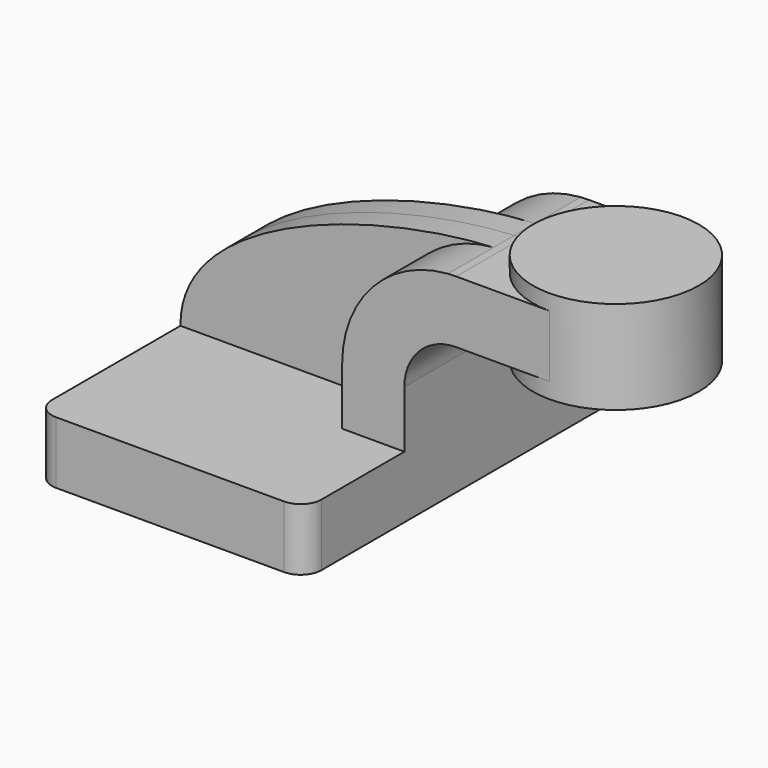
from build123d import *

# Parameters (mm, degrees)
F1_DEPTH = 63.5
F2_DEPTH = 7.9375
F0_W     = 25.4
F0_H     = 19.05
F3_DEPTH = 25.4
F5_R     = 6.35


with BuildPart() as f1:
    # F0 (on Front) → F1 (new body, symmetric)
    with BuildSketch(Plane.XZ):
        Polygon((41.275, -9.525), (41.275, 9.525), (22.225, 9.525), (-41.275, 9.525), (-41.275, -9.525), align=None)
    extrude(amount=F1_DEPTH, both=True)

    # F0 (on Front) → F2 (join, symmetric)
    with BuildSketch(Plane.XZ):
        with BuildLine():
            Line((-41.275, 9.525), (22.225, 9.525))
            Line((22.225, 9.525), (22.225, 27.0002))
            ThreePointArc((22.225, 27.0002), (31.5771327037, 50.7864162449), (54.6249475016, 61.8338006591))
            add(Edge.make_bspline(
                [(-41.275, 9.525), (-41.5838216247, 41.7459421201), (18.5290584876, 60.1514932336), (54.6249475016, 61.8338006591)],
                knots=[0, 0, 0, 0, 108.9228268403, 108.9228268403, 108.9228268403, 108.9228268403], degree=3))
        make_face()
    extrude(amount=F2_DEPTH, both=True)

    # F0 (on Front) → F3 (join, symmetric)
    with BuildSketch(Plane.XZ):
        with BuildLine():
            Line((22.225, 9.525), (41.275, 9.525))
            Line((41.275, 9.525), (41.275, 27.0002))
            ThreePointArc((41.275, 27.0002), (45.9246798487, 38.2255201513), (57.15, 42.8752))
            Line((57.15, 42.8752), (60.325, 42.8752))
            Line((60.325, 42.8752), (60.325, 61.9252))
            Line((60.325, 61.9252), (57.15, 61.9252))
            add(Edge.make_bspline(
                [(54.6249475016, 61.8338006591), (55.4804990504, 61.8736750261), (56.3225580044, 61.9041543798), (57.15, 61.9252)],
                knots=[108.9228268403, 108.9228268403, 108.9228268403, 108.9228268403, 111.5045361635, 111.5045361635, 111.5045361635, 111.5045361635], degree=3))
            ThreePointArc((54.6249475016, 61.8338006591), (31.5771327037, 50.7864162449), (22.225, 27.0002))
            Line((22.225, 27.0002), (22.225, 9.525))
        make_face()
        with Locations((73.025, 52.4002)):
            Rectangle(F0_W, F0_H)
    extrude(amount=F3_DEPTH, both=True)

    # F0 (on Front) → F4 (revolve)
    with BuildSketch(Plane.XZ):
        Polygon((85.725, 61.9252), (85.725, 42.8752), (85.725, 38.1), (111.125, 38.1), (111.125, 66.675), (85.725, 66.675), align=None)
    revolve(axis=Axis((85.725, 0, 52.3875), (0, 0, -1)))

    # F5
    f5_edges = [f1.edges().sort_by_distance(p)[0] for p in [
        (41.275, -63.5, 0),
        (-41.275, -63.5, 0),
        (41.275, 63.5, 0),
        (-41.275, 63.5, 0),
    ]]
    fillet(f5_edges, radius=F5_R)


solid = f1.part
